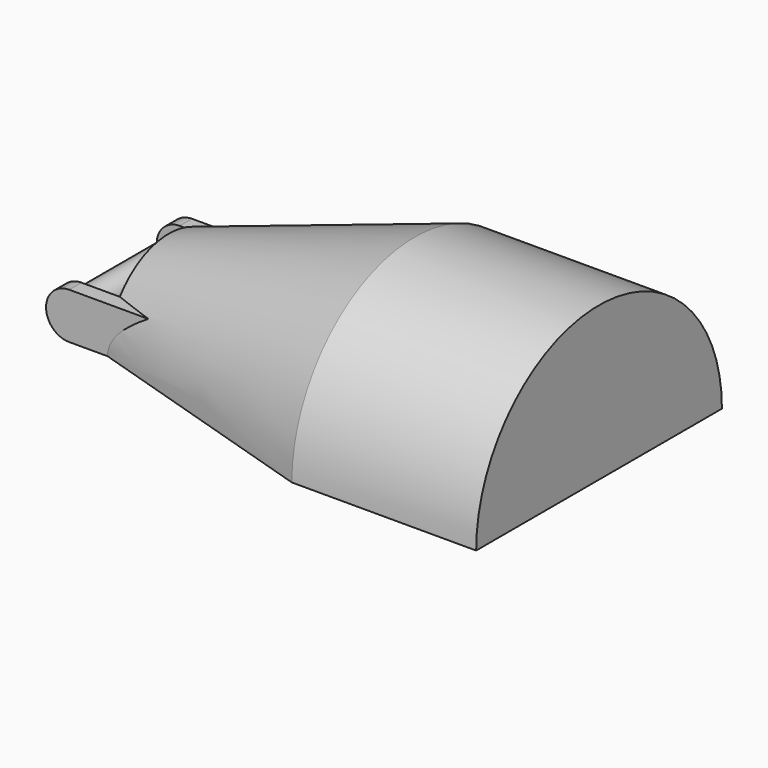
from build123d import *

# Parameters (mm, degrees)
F4_DEPTH = 19.05
F5_W     = 1.5875
F5_H     = 4.7625
F6_DEPTH = 6.35
F8_DEPTH = 25.4
F7_R     = 1.5875
F9_DEPTH = 15.875


with BuildPart() as f3:
    # F2 (on offset) → F3 section 0
    with BuildSketch(Plane.YZ.offset(-25.4)):
        with BuildLine():
            Line((-7.9375, 0), (7.9375, 0))
            ThreePointArc((7.9375, 0), (0, 7.9375), (-7.9375, 0))
        make_face()
    # F0 (on Right) → F3 section 1
    with BuildSketch(Plane.YZ):
        with BuildLine():
            ThreePointArc((15.875, 0), (0, 15.875), (-15.875, 0))
            Line((-15.875, 0), (15.875, 0))
        make_face()
    loft()

    # F4 (add): a face of the model
    f4_faces = [f3.faces().sort_by_distance(p)[0] for p in [
        (0, 0, 6.7375592576),
    ]]
    extrude(f4_faces, amount=F4_DEPTH)

    # F5 (on face) → F6 (join, symmetric)
    with BuildSketch(Plane(origin=(-25.4, 0, 0), x_dir=(0, -1, 0), z_dir=(-1, 0, 0))):
        with Locations((-7.14375, 2.38125)):
            Rectangle(F5_W, F5_H)
        with Locations((7.14375, 2.38125)):
            Rectangle(F5_W, F5_H)
    extrude(amount=F6_DEPTH, both=True)

    # F7 (on face) → F8 (cut)
    with BuildSketch(Plane(origin=(0, 7.9375, 0), x_dir=(-1, 0, 0), z_dir=(0, 1, 0))):
        with BuildLine():
            ThreePointArc((29.36875, 4.7625), (31.0525480227, 4.0650480227), (31.75, 2.38125))
            Line((31.75, 2.38125), (31.75, 4.7625))
            Line((31.75, 4.7625), (29.36875, 4.7625))
        make_face()
        with BuildLine():
            Line((31.75, 0), (31.75, 2.38125))
            ThreePointArc((31.75, 2.38125), (31.0525480227, 0.6974519773), (29.36875, 0))
            Line((29.36875, 0), (31.75, 0))
        make_face()
    extrude(amount=-F8_DEPTH, mode=Mode.SUBTRACT)

    # F7 (on face) → F9 (join)
    with BuildSketch(Plane(origin=(0, 7.9375, 0), x_dir=(-1, 0, 0), z_dir=(0, 1, 0))):
        with Locations((29.36875, 2.38125)):
            Circle(F7_R)
    extrude(amount=-F9_DEPTH)


solid = f3.part
